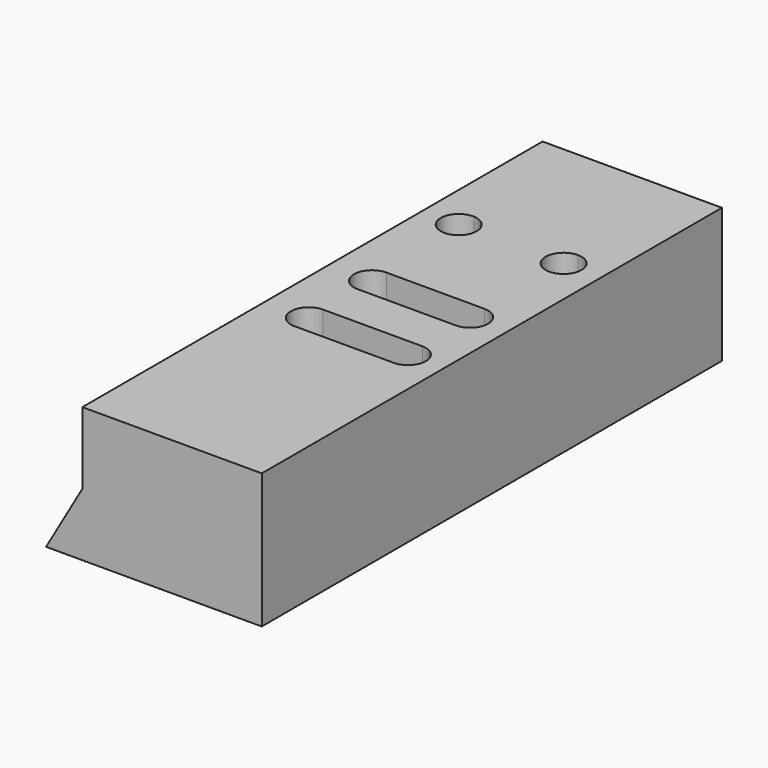
from build123d import *

# Parameters (mm, degrees)
F1_DEPTH = 101.6
F2_W     = 63.36839
F2_H     = 203.2
F4_DEPTH = 25.4


with BuildPart() as f1:
    # F0 (on Front) → F1 (new body, symmetric)
    with BuildSketch(Plane.XZ):
        Polygon((12.83161, 22.225), (0, 0), (76.2, 0), (76.2, 22.225), align=None)
    extrude(amount=F1_DEPTH, both=True)

    # F3 (on face) + F2 (on face) → F4 (join)
    with BuildSketch(Plane.XY.offset(22.225)):
        with BuildLine():
            Line((62.846202, 54.736137), (26.139274, 54.736137))
            ThreePointArc((26.139274, 54.736137), (30.39379, 52.75681), (32.127542, 48.396448))
            ThreePointArc((32.127542, 48.396448), (30.273808, 43.912467), (25.794916, 42.046472))
            Line((25.794916, 42.046472), (62.484054, 42.046472))
            ThreePointArc((62.484054, 42.046472), (56.498787, 48.567285), (62.846202, 54.736137))
        make_face()
    with BuildSketch(Plane.XY.offset(22.225)):
        with Locations((44.515805, 0)):
            Rectangle(F2_W, F2_H)
        with BuildLine():
            ThreePointArc((27.660721, -27.298201), (21.956218, -20.66114), (28.298193, -14.63028))
            Line((28.298193, -14.63028), (63.326776, -14.63028))
            ThreePointArc((63.326776, -14.63028), (67.816904, -16.490152), (69.676776, -20.98028))
            ThreePointArc((69.676776, -20.98028), (68.036896, -25.239068), (63.964249, -27.298201))
            ThreePointArc((63.964249, -27.298201), (63.326776, -27.33028), (62.689304, -27.298201))
            Line((62.689304, -27.298201), (28.935666, -27.298201))
            ThreePointArc((28.935666, -27.298201), (28.298193, -27.33028), (27.660721, -27.298201))
        make_face(mode=Mode.SUBTRACT)
        with BuildLine():
            ThreePointArc((25.794916, 42.046472), (19.429879, 48.568704), (26.139274, 54.736137))
            Line((26.139274, 54.736137), (62.846202, 54.736137))
            ThreePointArc((62.846202, 54.736137), (67.33633, 52.876265), (69.196202, 48.386137))
            ThreePointArc((69.196202, 48.386137), (67.462594, 44.025927), (63.208351, 42.046472))
            ThreePointArc((63.208351, 42.046472), (62.846202, 42.036137), (62.484054, 42.046472))
            Line((62.484054, 42.046472), (25.794916, 42.046472))
        make_face(mode=Mode.SUBTRACT)
        with BuildLine():
            ThreePointArc((28.094961, 0.849925), (21.744961, 7.199925), (28.094961, 13.549925))
            Line((28.094961, 13.549925), (62.774933, 13.549925))
            ThreePointArc((62.774933, 13.549925), (67.265062, 11.690053), (69.124933, 7.199925))
            ThreePointArc((69.124933, 7.199925), (67.265062, 2.709797), (62.774933, 0.849925))
            Line((62.774933, 0.849925), (28.094961, 0.849925))
        make_face(mode=Mode.SUBTRACT)
    extrude(amount=F4_DEPTH)


solid = f1.part
